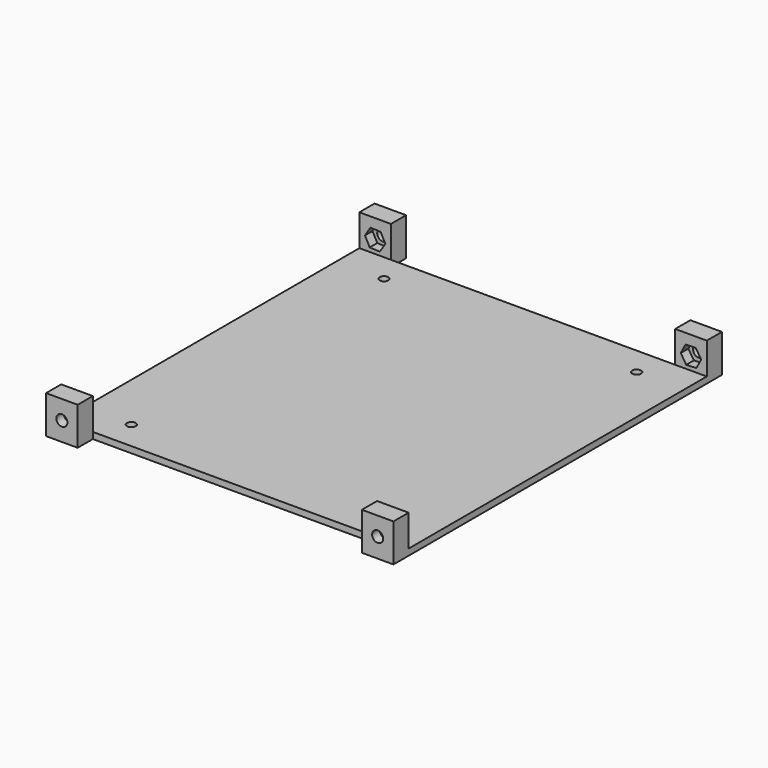
from build123d import *

# Parameters (mm, degrees)
F1_DEPTH  = 55
F2_W      = 90
F2_H      = 6
F3_DEPTH  = 25
F4_R      = 1.75
F5_DEPTH  = 130.001
F7_DEPTH  = 3
F9_DEPTH  = 3
F10_R     = 1.4
F11_DEPTH = 25


with BuildPart() as f1:
    # F0 (on Right) → F1 (new body, symmetric)
    with BuildSketch(Plane.YZ):
        Polygon((59, 25.4), (0, 25.4), (-59, 25.4), (-59, 35.4), (-65, 35.4), (-65, 23.4), (0, 23.4), (65, 23.4), (65, 35.4), (59, 35.4), align=None)
    extrude(amount=F1_DEPTH, both=True)

    # F2 (on face) → F3 (cut)
    with BuildSketch(Plane.XY.offset(35.4)):
        with Locations((0, 62)):
            Rectangle(F2_W, F2_H)
        with Locations((0, -62)):
            Rectangle(F2_W, F2_H)
    extrude(amount=-F3_DEPTH, mode=Mode.SUBTRACT)

    # F4 (on face) → F5 (cut, through all)
    with BuildSketch(Plane.XZ.offset(65)):
        with Locations((-50, 29.4)):
            Circle(F4_R)
        with Locations((50, 29.5409)):
            Circle(F4_R)
    extrude(amount=-F5_DEPTH, mode=Mode.SUBTRACT)

    # F6 (on face) → F7 (cut)
    with BuildSketch(Plane.XZ.offset(-59)):
        Polygon((-46.769562, 29.267323), (-48.269879, 32.131303), (-51.500317, 32.26398), (-53.230438, 29.532677), (-51.730121, 26.668697), (-48.499683, 26.53602), align=None)
        Polygon((51.730121, 26.668697), (53.230438, 29.532677), (51.500317, 32.26398), (48.269879, 32.131303), (46.769562, 29.267323), (48.499683, 26.53602), align=None)
    extrude(amount=-F7_DEPTH, mode=Mode.SUBTRACT)

    # F8 (on face) → F9 (cut)
    with BuildSketch(Plane(origin=(0, -59, 0), x_dir=(-1, 0, 0), z_dir=(0, 1, 0))):
        Polygon((-47.344236, 29.556816), (-48.685902, 31.848817), (-51.341665, 31.832901), (-52.655764, 29.524984), (-51.314098, 27.232983), (-48.658335, 27.248899), align=None)
        Polygon((51.341665, 31.832901), (48.685902, 31.848817), (47.344236, 29.556816), (48.658335, 27.248899), (51.314098, 27.232983), (52.655764, 29.524984), align=None)
    extrude(amount=-F9_DEPTH, mode=Mode.SUBTRACT)

    # F10 (on face) → F11 (cut)
    with BuildSketch(Plane.XY.offset(25.4)):
        with Locations((-40, 50)):
            Circle(F10_R)
        with Locations((40, 50)):
            Circle(F10_R)
        with Locations((-40, -50)):
            Circle(F10_R)
        with Locations((40, -50)):
            Circle(F10_R)
    extrude(amount=-F11_DEPTH, mode=Mode.SUBTRACT)


solid = f1.part
